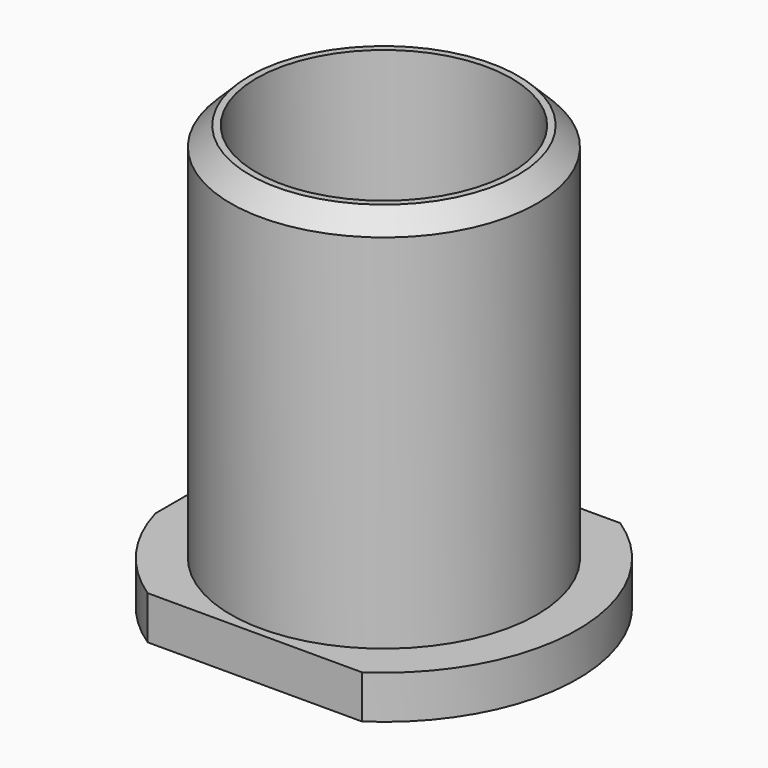
from build123d import *

# Parameters (mm, degrees)
F0_R     = 10.2362
F0_R_2   = 8.51027
F1_DEPTH = 28.3591
F3_DEPTH = 2.8956
F5_D     = 17.0434
F6_SIZE  = 1.27


with BuildPart() as f1:
    # F0 (on Top) → F1 (new body)
    with BuildSketch(Plane.XY):
        Circle(F0_R)
        Circle(F0_R_2, mode=Mode.SUBTRACT)
    extrude(amount=F1_DEPTH)

    # F2 (on Top) → F3 (join)
    with BuildSketch(Plane.XY):
        with BuildLine():
            Line((-7.160593, -10.795), (7.160593, -10.795))
            ThreePointArc((7.160593, -10.795), (12.954, 0), (7.160593, 10.795))
            Line((7.160593, 10.795), (-7.160593, 10.795))
            ThreePointArc((-7.160593, 10.795), (-10.471269, 7.626181), (-12.4714, 3.502899))
            Line((-12.4714, 3.502899), (-12.4714, -3.502899))
            ThreePointArc((-12.4714, -3.502899), (-10.471269, -7.626181), (-7.160593, -10.795))
        make_face()
    extrude(amount=F3_DEPTH)

    # F5 (through all)
    with Locations(Plane(origin=(0, 0, 0), x_dir=(1, 0, 0), z_dir=(0, 0, -1))):
        with Locations((0, 0)):
            Hole(F5_D / 2)

    # F6
    f6_edges = [f1.edges().sort_by_distance(p)[0] for p in [
        (-10.2362, 0, 28.3591),
    ]]
    chamfer(f6_edges, length=F6_SIZE)


solid = f1.part
